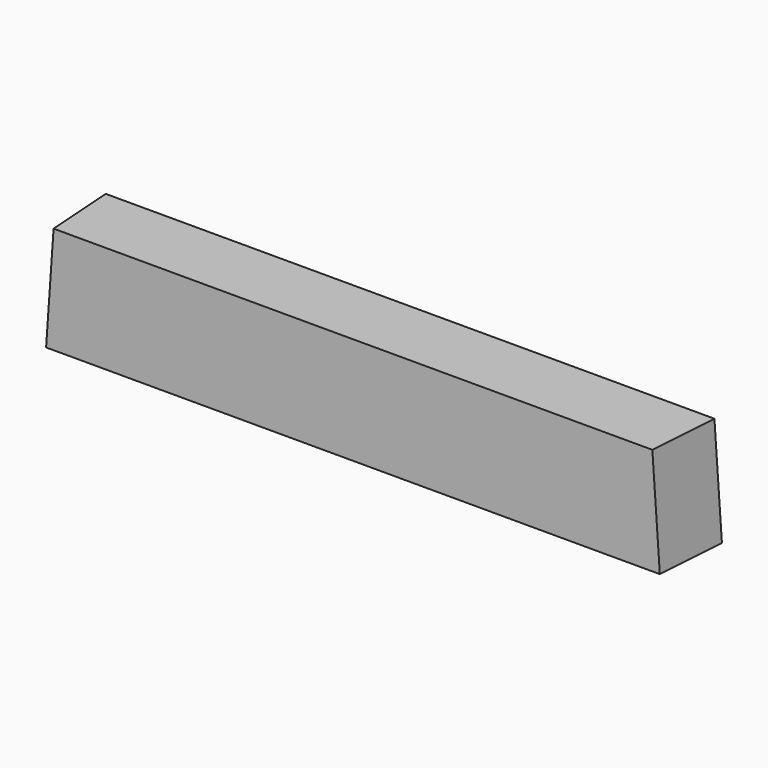
from build123d import *

# Parameters (mm, degrees)
F1_DEPTH = 30
F4_DEPTH = 27.7
F7_DEPTH = 50.2


with BuildPart() as f1:
    # F0 (on Top) → F1 (new body)
    with BuildSketch(Plane.XY):
        Polygon((-1.3985362389, 20), (0, 0), (172, 0), (173.3985362389, 20), align=None)
    extrude(amount=F1_DEPTH)

    # F3 (on face) → F4 (cut, symmetric)
    with BuildSketch(Plane(origin=(0, 0, 0), x_dir=(-0.9975640503, -0.0697564737, 0), z_dir=(-0.0697564737, 0.9975640503, 0))):
        Polygon((-2.4909883108, 35.6227924818), (0, 0), (0, 35.6227924818), align=None)
    extrude(amount=F4_DEPTH, both=True, mode=Mode.SUBTRACT)

    # F6 (on face) → F7 (cut, symmetric)
    with BuildSketch(Plane(origin=(0.8369460882, 11.9688866826, 0), x_dir=(-0.9975640503, 0.0697564737, 0), z_dir=(0.0697564737, 0.9975640503, 0))):
        Polygon((-171.5810166447, 89.9730579068), (-171.5810166447, 0), (-165.3201019088, 89.5352520994), align=None)
    extrude(amount=F7_DEPTH, both=True, mode=Mode.SUBTRACT)


solid = f1.part
